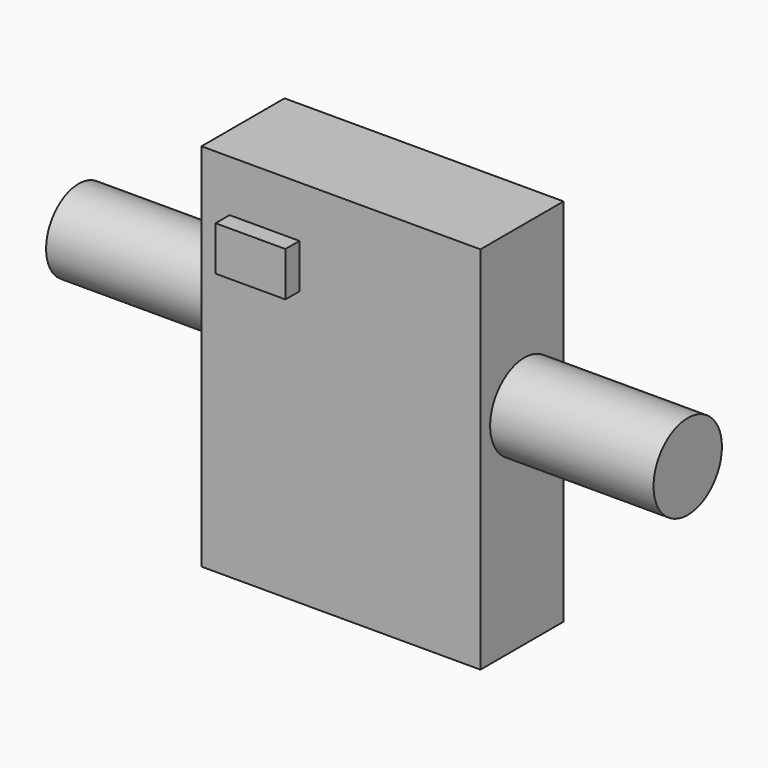
from build123d import *

# Parameters (mm, degrees)
F0_W      = 68.2077519596
F0_H      = 90.4731266201
F1_DEPTH  = 25.4
F2_R      = 10.4447594079
F3_DEPTH  = 30.0825480372
F4_R      = 9.9602632564
F5_DEPTH  = 25.4
F6_DEPTH  = 14.6486386657
F7_DEPTH  = 77.0113542676
F8_DEPTH  = 7.2514917701
F9_DEPTH  = 2.6144357398
F10_W     = 17.0795619488
F10_H     = 10.8526591212
F11_DEPTH = 4.2919376865


with BuildPart() as f1:
    # F0 (on Front) → F1 (new body)
    with BuildSketch(Plane.XZ):
        with Locations((-11.2533476204, -0.3619696945)):
            Rectangle(F0_W, F0_H)
    extrude(amount=F1_DEPTH)

    # F2 (on face) → F3 (join)
    with BuildSketch(Plane.YZ.offset(22.8505283594)):
        with Locations((-11.9834244251, 5.6728608906)):
            Circle(F2_R)
    extrude(amount=F3_DEPTH)

    # F4 (on face) → F5 (join)
    with BuildSketch(Plane(origin=(-45.3572236001, 0, 0), x_dir=(0, -1, 0), z_dir=(-1, 0, 0))):
        with Locations((12.8610506654, 8.7403887883)):
            Circle(F4_R)
    extrude(amount=F5_DEPTH)

    # F6 (add): a face of the model
    f6_faces = [f1.faces().sort_by_distance(p)[0] for p in [
        (-70.7572236001, -12.8610506654, 8.7403887883),
    ]]
    extrude(f6_faces, amount=F6_DEPTH)

    # F7 (add): a face of the model
    f7_faces = [f1.faces().sort_by_distance(p)[0] for p in [
        (-85.4058622658, -12.8610506654, 8.7403887883),
    ]]
    extrude(f7_faces, amount=-F7_DEPTH)

    # F8 (add): a face of the model
    f8_faces = [f1.faces().sort_by_distance(p)[0] for p in [
        (52.9330763966, -11.9834244251, 5.6728608906),
    ]]
    extrude(f8_faces, amount=F8_DEPTH)

    # F9 (add): a face of the model
    f9_faces = [f1.faces().sort_by_distance(p)[0] for p in [
        (60.1845681667, -11.9834244251, 5.6728608906),
    ]]
    extrude(f9_faces, amount=F9_DEPTH)

    # F10 (on face) → F11 (join)
    with BuildSketch(Plane.XZ.offset(25.4)):
        with Locations((-29.9396589398, 26.8718404695)):
            Rectangle(F10_W, F10_H)
    extrude(amount=F11_DEPTH)


solid = f1.part
